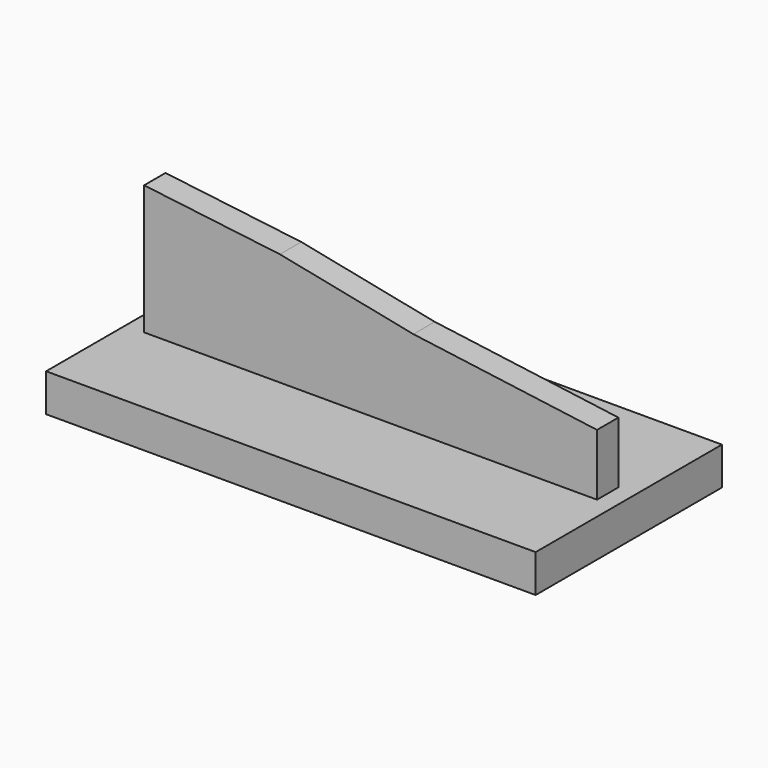
from build123d import *

# Parameters (mm, degrees)
F0_W     = 190.743774
F0_H     = 90.716604
F1_DEPTH = 14.732
F3_DEPTH = 10.414


with BuildPart() as f1:
    # F0 (on Top) → F1 (new body)
    with BuildSketch(Plane.XY):
        with Locations((-19.67562, 6.225562)):
            Rectangle(F0_W, F0_H)
    extrude(amount=F1_DEPTH)


with BuildPart() as f3:
    # F2 (on Front) → F3 (new body)
    with BuildSketch(Plane.XZ):
        Polygon((-99.821836, 71.798538), (-99.821836, 21.341639), (76.627053, 21.341639), (76.627053, 45.279459), (5.090228, 54.852204), (-46.913039, 65.330473), align=None)
    extrude(amount=F3_DEPTH)


solid = Compound([f1.part, f3.part])
